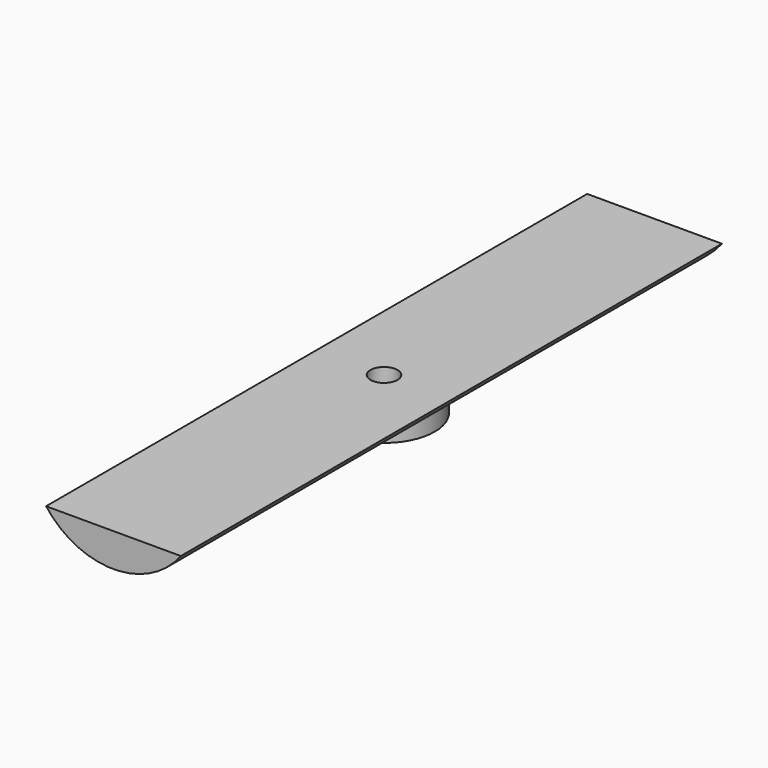
from build123d import *

# Parameters (mm, degrees)
F0_R          = 15
F1_DEPTH      = 10
F3_DEPTH      = 100
F3_DEPTH_BACK = 100
F4_DEPTH      = 100
F4_DEPTH_BACK = 100
F5_R          = 4
F6_DEPTH      = 25
F7_W          = 14
F7_H          = 14
F7_R          = 4
F8_DEPTH      = 5


with BuildPart() as f1:
    # F0 (on Top) → F1 (new body)
    with BuildSketch(Plane.XY):
        Circle(F0_R)
    extrude(amount=F1_DEPTH)

    # F2 (on Front) → F3 (join, two sides)
    with BuildSketch(Plane.XZ) as f3_sk:
        with BuildLine():
            Line((19.9266501849, 9.9026951939), (-19.9266501849, 9.9026951939))
            ThreePointArc((-19.9266501849, 9.9026951939), (0, 0), (19.9266501849, 9.9026951939))
        make_face()
        with BuildLine():
            ThreePointArc((19.9266501849, 9.9026951939), (23.6977451947, 17.0365288543), (25, 25))
            ThreePointArc((25, 25), (-7.9634711457, 48.6977451947), (-19.9266501849, 9.9026951939))
            Line((-19.9266501849, 9.9026951939), (19.9266501849, 9.9026951939))
        make_face()
    extrude(amount=F3_DEPTH)
    extrude(f3_sk.sketch, amount=-F3_DEPTH_BACK)

    # F2 (on Front) → F4 (cut, two sides)
    with BuildSketch(Plane.XZ) as f4_sk:
        with BuildLine():
            ThreePointArc((-19.9266501849, 9.9026951939), (-7.9634711457, 48.6977451947), (25, 25))
            ThreePointArc((25, 25), (23.6977451947, 17.0365288543), (19.9266501849, 9.9026951939))
            Line((19.9266501849, 9.9026951939), (43.9491011202, 9.9026951939))
            Line((43.9491011202, 9.9026951939), (43.9491011202, 56.3038922846))
            Line((43.9491011202, 56.3038922846), (-35.4610793293, 56.3038922846))
            Line((-35.4610793293, 56.3038922846), (-35.4610793293, 9.9026951939))
            Line((-35.4610793293, 9.9026951939), (-19.9266501849, 9.9026951939))
        make_face()
        with BuildLine():
            ThreePointArc((19.9266501849, 9.9026951939), (23.6977451947, 17.0365288543), (25, 25))
            ThreePointArc((25, 25), (-7.9634711457, 48.6977451947), (-19.9266501849, 9.9026951939))
            Line((-19.9266501849, 9.9026951939), (19.9266501849, 9.9026951939))
        make_face()
    extrude(amount=-F4_DEPTH, mode=Mode.SUBTRACT)
    extrude(f4_sk.sketch, amount=F4_DEPTH_BACK, mode=Mode.SUBTRACT)

    # F5 (on face) → F6 (cut)
    with BuildSketch(Plane.XY.offset(9.9026951939)):
        Circle(F5_R)
    extrude(amount=-F6_DEPTH, mode=Mode.SUBTRACT)

    # F7 (on face) → F8 (cut)
    with BuildSketch(Plane(origin=(0, 0, 0), x_dir=(1, 0, 0), z_dir=(0, 0, -1))):
        Rectangle(F7_W, F7_H)
        Circle(F7_R, mode=Mode.SUBTRACT)
    extrude(amount=-F8_DEPTH, mode=Mode.SUBTRACT)


solid = f1.part
